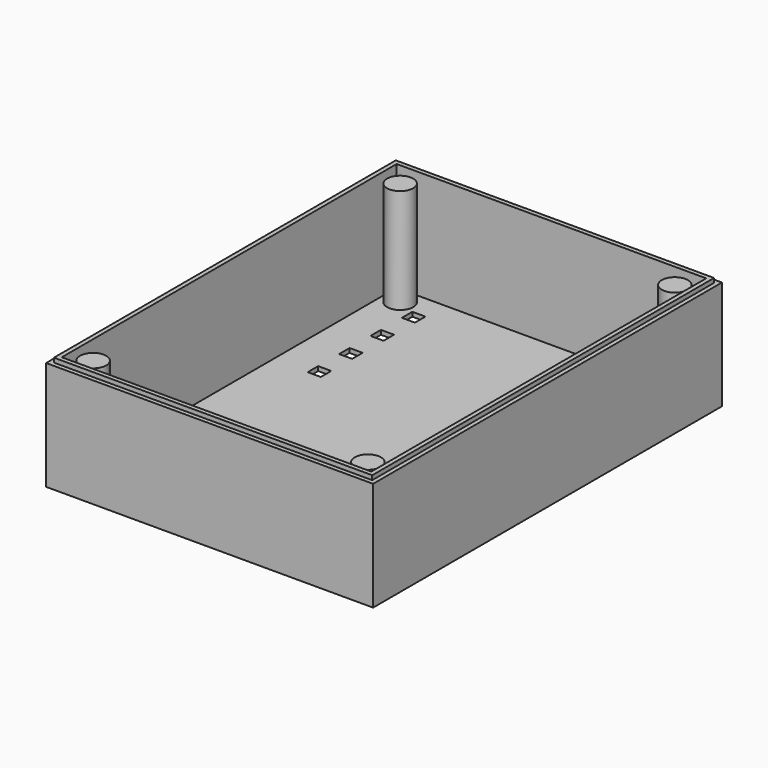
from build123d import *

# Parameters (mm, degrees)
SKETCH_W           = 150
SKETCH_H           = 200
PAD_DEPTH          = 50
SKETCH001_W        = 146
SKETCH001_H        = 196
PAD001_DEPTH       = 52
SKETCH002_W        = 142
SKETCH002_H        = 192
POCKET_DEPTH       = 50
SKETCH003_W        = 6
SKETCH003_H        = 6
POCKET001_DEPTH    = 5
SKETCH004_R        = 6
PAD002_DEPTH       = 50
POLARPATTERN_COUNT = 2


with BuildPart() as part:
    # Sketch → Pad (new body)
    with BuildSketch(Plane.XY):
        Rectangle(SKETCH_W, SKETCH_H)
    extrude(amount=PAD_DEPTH)

    # Sketch001 → Pad001 (join)
    with BuildSketch(Plane.XY):
        Rectangle(SKETCH001_W, SKETCH001_H)
    extrude(amount=PAD001_DEPTH)

    # Sketch002 → Pocket (cut)
    with BuildSketch(Plane.XY.offset(52)):
        Rectangle(SKETCH002_W, SKETCH002_H)
    extrude(amount=-POCKET_DEPTH, mode=Mode.SUBTRACT)

    # Sketch003 → Pocket001 (cut)
    with BuildSketch(Plane.XY):
        with Locations((52, 82)):
            Rectangle(SKETCH003_W, SKETCH003_H)
        with Locations((52, 64)):
            Rectangle(SKETCH003_W, SKETCH003_H)
        with Locations((52, 46)):
            Rectangle(SKETCH003_W, SKETCH003_H)
        with Locations((52, 28)):
            Rectangle(SKETCH003_W, SKETCH003_H)
        with Locations((-52, 82)):
            Rectangle(SKETCH003_W, SKETCH003_H)
        with Locations((-52, 64)):
            Rectangle(SKETCH003_W, SKETCH003_H)
        with Locations((-52, 46)):
            Rectangle(SKETCH003_W, SKETCH003_H)
        with Locations((-52, 28)):
            Rectangle(SKETCH003_W, SKETCH003_H)
    extrude(amount=POCKET001_DEPTH, mode=Mode.SUBTRACT)

    # Sketch004 → Pad002 (join)
    with BuildSketch(Plane.XY):
        with Locations((63, 88)):
            Circle(SKETCH004_R)
    pad002 = extrude(amount=PAD002_DEPTH)

    # Mirrored: Pad002 across Sketch004 V_Axis
    add(pad002.mirror(Plane(origin=(0, 0, 0), x_dir=(0, 0, 1), z_dir=(1, 0, 0))))

    # Mirrored001: Pad002 across Sketch004 H_Axis
    add(pad002.mirror(Plane.ZX))

    # PolarPattern: Pad002 ×2 about axis
    polarpattern_axis = Axis((0, 0, 0), (0, 0, 1))
    for i in range(1, POLARPATTERN_COUNT):
        add(pad002.rotate(polarpattern_axis, i * 360 / POLARPATTERN_COUNT))


solid = part.part
